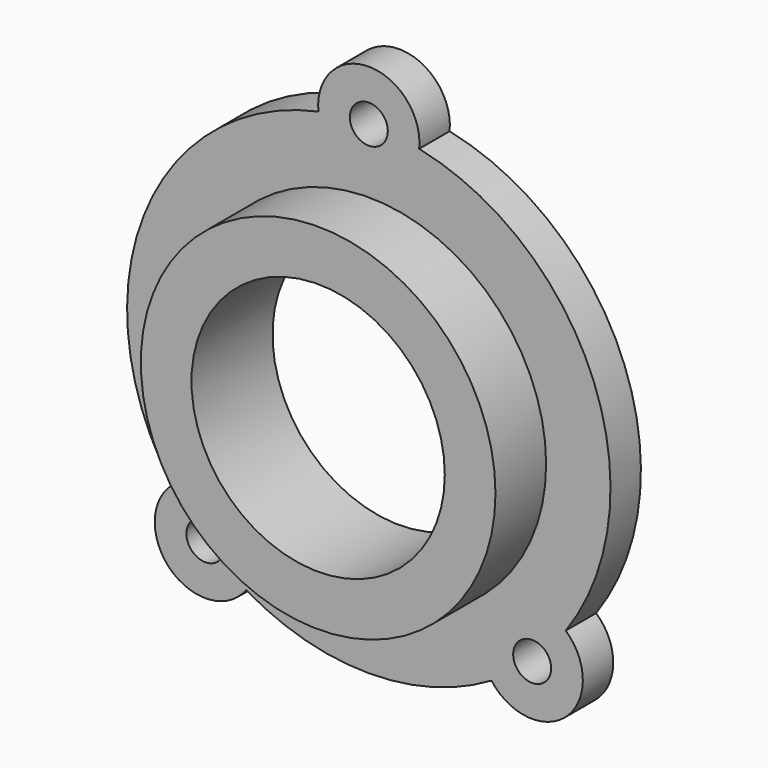
from build123d import *

# Parameters (mm, degrees)
F0_R     = 44.45
F0_R_2   = 31.75
F1_DEPTH = 25.4
F0_R_3   = 4.7625
F2_DEPTH = 9.525


with BuildPart() as f1:
    # F0 (on Front) → F1 (new body)
    with BuildSketch(Plane.XZ):
        Circle(F0_R)
        Circle(F0_R_2, mode=Mode.SUBTRACT)
    extrude(amount=F1_DEPTH)

    # F0 (on Front) → F2 (join)
    with BuildSketch(Plane.XZ):
        with BuildLine():
            ThreePointArc((30.748129, -52.209978), (49.540006, -54.013248), (49.363954, -35.135869))
            ThreePointArc((49.363954, -35.135869), (56.466669, 21.973723), (12.630065, 59.260532))
            ThreePointArc((12.630065, 59.260532), (0, 73.291495), (-12.630065, 59.260532))
            ThreePointArc((-12.630065, 59.260532), (-56.466669, 21.973723), (-49.363954, -35.135869))
            ThreePointArc((-49.363954, -35.135869), (-49.540006, -54.013248), (-30.748129, -52.209978))
            ThreePointArc((-30.748129, -52.209978), (0, -60.591495), (30.748129, -52.209978))
        make_face()
        with Locations((-40.95568, -44.653796)):
            Circle(F0_R_3, mode=Mode.SUBTRACT)
        Circle(F0_R, mode=Mode.SUBTRACT)
        with Locations((40.95568, -44.653796)):
            Circle(F0_R_3, mode=Mode.SUBTRACT)
        with Locations((0, 60.591495)):
            Circle(F0_R_3, mode=Mode.SUBTRACT)
    extrude(amount=F2_DEPTH)


solid = f1.part
